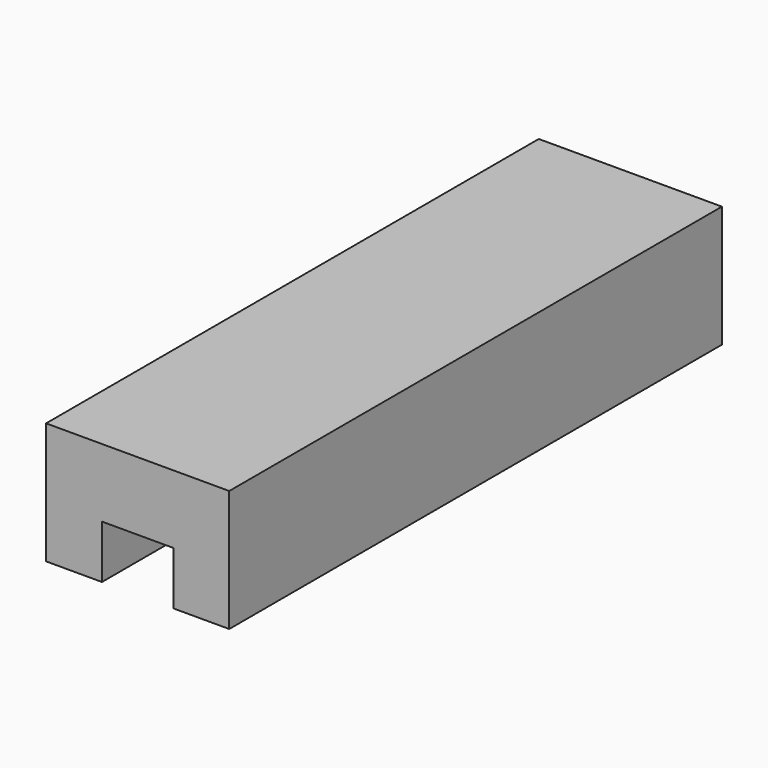
from build123d import *

# Parameters (mm, degrees)
F0_W     = 31.305283
F0_H     = 29.811561
F0_H_2   = 38.264022
F0_W_2   = 39.995074
F0_W_3   = 31.305284
F1_DEPTH = 345


with BuildPart() as f1:
    # F0 (on Front) → F1 (new body)
    with BuildSketch(Plane.XZ):
        with Locations((-37.930622, -37.864193)):
            Rectangle(F0_W, F0_H)
        with Locations((-37.930622, -3.826402)):
            Rectangle(F0_W, F0_H_2)
        with Locations((-2.280444, -3.826402)):
            Rectangle(F0_W_2, F0_H_2)
        with Locations((33.369735, -3.826402)):
            Rectangle(F0_W_3, F0_H_2)
        with Locations((33.369735, -37.864193)):
            Rectangle(F0_W_3, F0_H)
    extrude(amount=F1_DEPTH)


solid = f1.part
